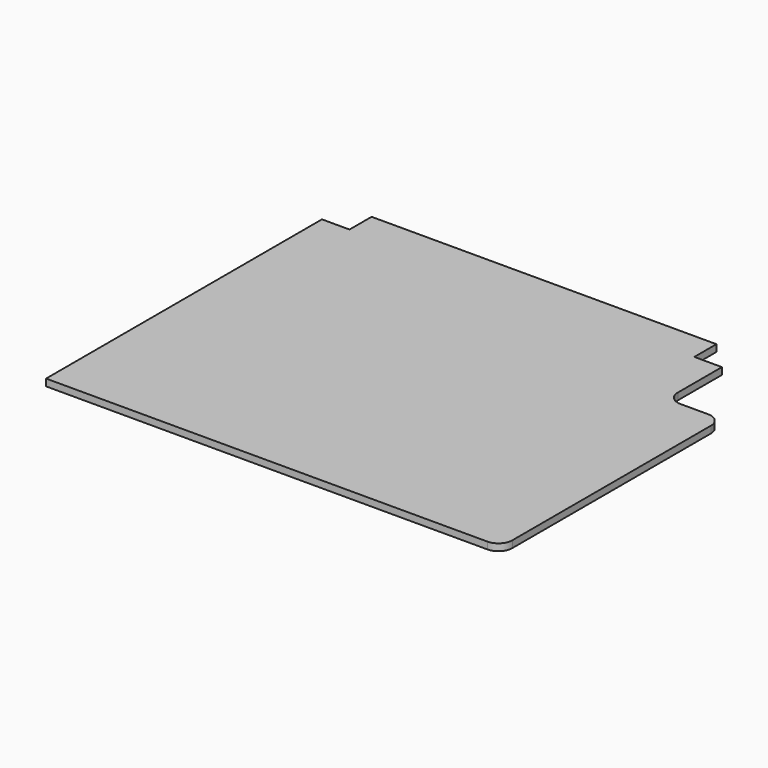
from build123d import *

# Parameters (mm, degrees)
F1_DEPTH = 5
F2_R     = 10


with BuildPart() as f1:
    # F0 (on Top) → F1 (new body)
    with BuildSketch(Plane.XY):
        Polygon((-145, -125), (145, -125), (185, -125), (185, 75), (145, 75), (145, 125), (125, 125), (125, 145), (-125, 145), (-125, 125), (-145, 125), align=None)
    extrude(amount=F1_DEPTH)

    # F2
    f2_edges = [f1.edges().sort_by_distance(p)[0] for p in [
        (185, -125, 2.5),
        (185, 75, 2.5),
        (145, 75, 2.5),
    ]]
    fillet(f2_edges, radius=F2_R)


solid = f1.part
